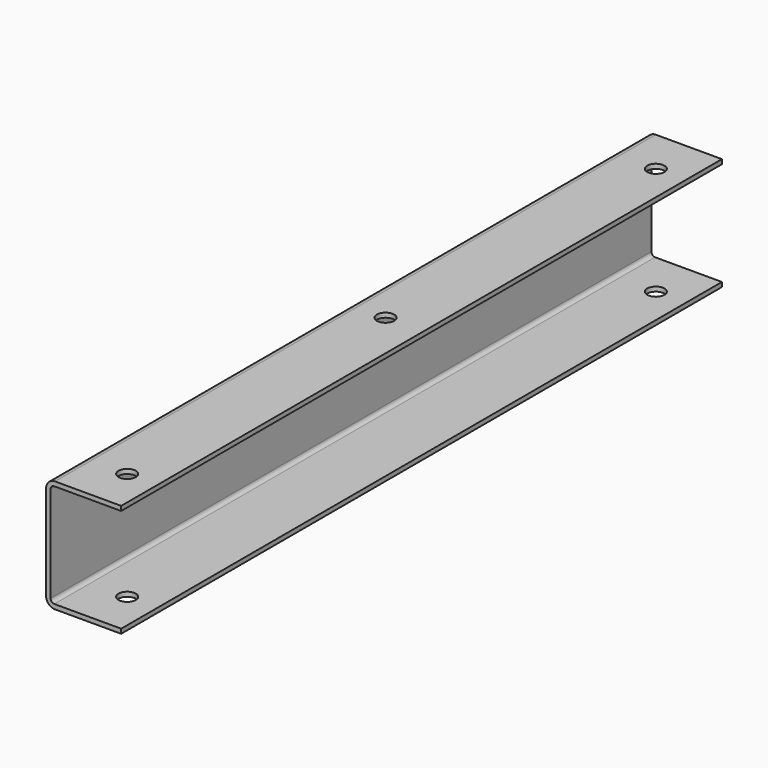
from build123d import *

# Parameters (mm, degrees)
F1_DEPTH = 1000
F2_R     = 11.5
F3_DEPTH = 175
F6_R     = 11.5
F7_DEPTH = 25


with BuildPart() as f1:
    # F0 (on Front) → F1 (new body)
    with BuildSketch(Plane.XZ):
        with BuildLine():
            Line((50, 75), (-38, 75))
            ThreePointArc((-38, 75), (-46.485281, 71.485281), (-50, 63))
            Line((-50, 63), (-50, -63))
            ThreePointArc((-50, -63), (-46.485281, -71.485281), (-38, -75))
            Line((-38, -75), (50, -75))
            Line((50, -75), (50, -69))
            Line((50, -69), (-39, -69))
            ThreePointArc((-39, -69), (-42.535534, -67.535534), (-44, -64))
            Line((-44, -64), (-44, 64))
            ThreePointArc((-44, 64), (-42.535534, 67.535534), (-39, 69))
            Line((-39, 69), (50, 69))
            Line((50, 69), (50, 75))
        make_face()
    extrude(amount=F1_DEPTH)

    # F2 (on face) → F3 (cut)
    with BuildSketch(Plane.XY.offset(75)):
        with Locations((10, -60)):
            Circle(F2_R)
        with Locations((10, -940)):
            Circle(F2_R)
    extrude(amount=-F3_DEPTH, mode=Mode.SUBTRACT)

    # F6 (on face) → F7 (cut)
    with BuildSketch(Plane.XY.offset(75)):
        with Locations((0, -497.356147)):
            Circle(F6_R)
    extrude(amount=-F7_DEPTH, mode=Mode.SUBTRACT)


with BuildPart() as f4_1:
    # F4: copy of F1
    add(f1.part.moved(Location((300, 0, 0))))


solid = f1.part
